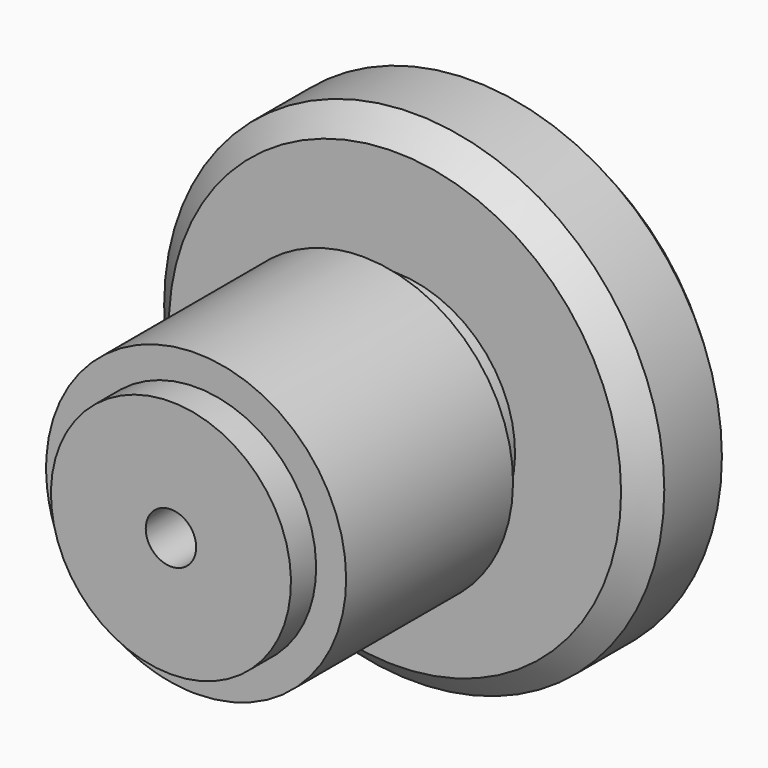
from build123d import *

# Parameters (mm, degrees)
F0_R      = 7.9375
F1_DEPTH  = 3.81
F2_R      = 4.7625
F3_DEPTH  = 8.89
F4_W      = 1.27
F4_H      = 2.1629516506
F6_W      = 2.032
F6_H      = 3.1603286043
F8_SIZE   = 0.762
F9_R      = 0.8001
F10_DEPTH = 12.701


with BuildPart() as f1:
    # F0 (on Front) → F1 (new body)
    with BuildSketch(Plane.XZ):
        Circle(F0_R)
    extrude(amount=F1_DEPTH)

    # F2 (on face) → F3 (join)
    with BuildSketch(Plane.XZ.offset(3.81)):
        Circle(F2_R)
    extrude(amount=F3_DEPTH)

    # F5: sweep along a path in F5_path
    with BuildLine(Plane(origin=(7.9375, -3.81, 0), x_dir=(0, 0, 1), z_dir=(0, -1, 0))) as f5_path:
        CenterArc((0, 7.9375), 7.9375, 0, 360)
    # F4 (on Right) → F5 (sweep, cut)
    with BuildSketch(Plane.YZ):
        with Locations((-4.445, 4.8914758253)):
            Rectangle(F4_W, F4_H)
    sweep(path=f5_path.line, mode=Mode.SUBTRACT)

    # F7: sweep along a path in F7_path
    with BuildLine(Plane(origin=(4.7625, -12.7, 0), x_dir=(0, 0, -1), z_dir=(0, 1, 0))) as f7_path:
        CenterArc((0, 4.7625), 4.7625, 0, 360)
    # F6 (on Right) → F7 (sweep, cut)
    with BuildSketch(Plane.YZ):
        with Locations((-12.7178874735, 5.3901643021)):
            Rectangle(F6_W, F6_H)
    sweep(path=f7_path.line, mode=Mode.SUBTRACT)

    # F8
    f8_edges = [f1.edges().sort_by_distance(p)[0] for p in [
        (-7.9375, 0, 0),
        (-7.9375, -3.81, 0),
    ]]
    chamfer(f8_edges, length=F8_SIZE)

    # F9 (on face) → F10 (cut, through all)
    with BuildSketch(Plane(origin=(0, 0, 0), x_dir=(-1, 0, 0), z_dir=(0, 1, 0))):
        Circle(F9_R)
    extrude(amount=-F10_DEPTH, mode=Mode.SUBTRACT)


solid = f1.part
